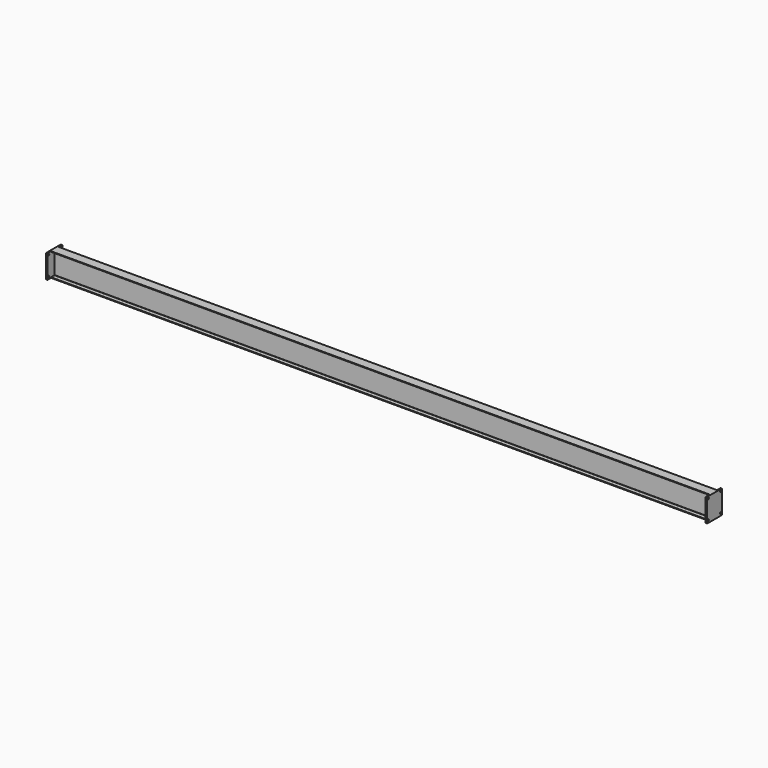
from build123d import *

# Parameters (mm, degrees)
F1_DEPTH = 3559.175
F2_R     = 9.525
F3_DEPTH = 12.7


with BuildPart() as f1:
    # F0 (on Right) → F1 (new body, symmetric)
    with BuildSketch(Plane.YZ):
        with BuildLine():
            Line((-50.8, 0), (0, 0))
            Line((0, 0), (50.8, 0))
            Line((50.8, 0), (50.8, 6.35))
            Line((50.8, 6.35), (6.223, 6.35))
            ThreePointArc((6.223, 6.35), (3.9779359697, 7.2799359697), (3.048, 9.525))
            Line((3.048, 9.525), (3.048, 247.65))
            Line((3.048, 247.65), (50.8, 247.65))
            Line((50.8, 247.65), (50.8, 254))
            Line((50.8, 254), (0, 254))
            Line((0, 254), (-50.8, 254))
            Line((-50.8, 254), (-50.8, 247.65))
            Line((-50.8, 247.65), (-6.223, 247.65))
            ThreePointArc((-6.223, 247.65), (-3.9779359697, 246.7200640303), (-3.048, 244.475))
            Line((-3.048, 244.475), (-3.048, 9.525))
            ThreePointArc((-3.048, 9.525), (-3.9779359697, 7.2799359697), (-6.223, 6.35))
            Line((-6.223, 6.35), (-50.8, 6.35))
            Line((-50.8, 6.35), (-50.8, 0))
        make_face()
    extrude(amount=F1_DEPTH, both=True)

    # F2 (on face) → F3 (join)
    with BuildSketch(Plane.YZ.offset(3559.175)):
        with BuildLine():
            ThreePointArc((101.6, 247.65), (99.7401280605, 252.1401280605), (95.25, 254))
            Line((95.25, 254), (-95.25, 254))
            ThreePointArc((-95.25, 254), (-99.7401280605, 252.1401280605), (-101.6, 247.65))
            Line((-101.6, 247.65), (-101.6, 6.35))
            ThreePointArc((-101.6, 6.35), (-99.7401280605, 1.8598719395), (-95.25, 0))
            Line((-95.25, 0), (95.25, 0))
            ThreePointArc((95.25, 0), (99.7401280605, 1.8598719395), (101.6, 6.35))
            Line((101.6, 6.35), (101.6, 247.65))
        make_face()
        with Locations((-83.4227353334, 25.7875584066)):
            Circle(F2_R, mode=Mode.SUBTRACT)
        with Locations((83.4227353334, 25.7875584066)):
            Circle(F2_R, mode=Mode.SUBTRACT)
        with Locations((-83.4227353334, 234.8948270082)):
            Circle(F2_R, mode=Mode.SUBTRACT)
        with Locations((83.4227353334, 234.8948270082)):
            Circle(F2_R, mode=Mode.SUBTRACT)
    extrude(amount=F3_DEPTH)

    # F4: F1 across plane


with BuildPart() as f1_1:
    add(f1.part)
    add(f1.part.mirror(Plane.YZ))


solid = f1_1.part
